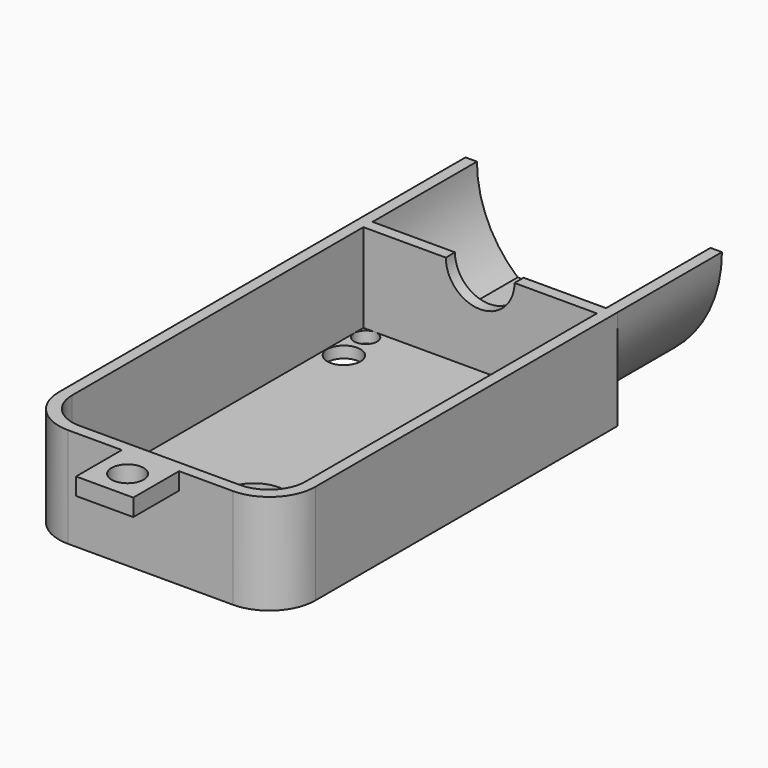
from build123d import *

# Parameters (mm, degrees)
PAD029_DEPTH    = 11.4
SKETCH042_W     = 22.4
SKETCH042_H     = 8.7429971978
PAD030_DEPTH    = 37
SKETCH043_W     = 5
SKETCH043_H     = 5
SKETCH043_R     = 1.4
PAD031_DEPTH    = 1.5
SKETCH044_R     = 2.7
SKETCH044_R_2   = 1.45
SKETCH044_R_3   = 1
POCKET007_DEPTH = 8.75
POCKET010_DEPTH = 11.4
SKETCH055_W     = 20.4
SKETCH055_H     = 35
POCKET011_DEPTH = 7.743
FILLET012_R     = 3.2
FILLET013_R     = 4
SKETCH056_R     = 3
POCKET012_DEPTH = 1
SKETCH057_W     = 6
SKETCH057_H     = 2
POCKET013_DEPTH = 1
PAD040_DEPTH    = 2.65


with BuildPart() as part:
    # Sketch041 → Pad029 (new body)
    with BuildSketch(Plane.XZ):
        with BuildLine():
            ThreePointArc((7, -8.7429971978), (10.0955435713, -4.8497422612), (11.2, 0))
            Line((-11.2, 0), (11.2, 0))
            ThreePointArc((-11.2, 0), (-10.0955435713, -4.8497422612), (-7, -8.7429971978))
            Line((7, -8.7429971978), (-7, -8.7429971978))
        make_face()
    extrude(amount=PAD029_DEPTH)

    # Sketch042 (on Face6 of Pad029) → Pad030 (join)
    with BuildSketch(Plane.XZ.offset(11.4)):
        with Locations((0, -4.3714985989)):
            Rectangle(SKETCH042_W, SKETCH042_H)
    extrude(amount=PAD030_DEPTH)

    # Sketch043 (on Face10 of Pad030) → Pad031 (join)
    with BuildSketch(Plane(origin=(0, 0, 0), x_dir=(-1, 0, 0), z_dir=(0, 0, 1))):
        with Locations((0, 50.9)):
            Rectangle(SKETCH043_W, SKETCH043_H)
        with Locations((0, 50.9)):
            Circle(SKETCH043_R, mode=Mode.SUBTRACT)
    extrude(amount=-PAD031_DEPTH)

    # Sketch044 (on Face15 of Pad031) → Pocket007 (cut)
    with BuildSketch(Plane(origin=(0, 0, 0), x_dir=(-1, 0, 0), z_dir=(0, 0, 1))):
        with Locations((0, 37.1)):
            Circle(SKETCH044_R)
        with Locations((8.7, 16.4)):
            Circle(SKETCH044_R_2)
        with Locations((-8.7, 16.4)):
            Circle(SKETCH044_R_2)
        with Locations((-9.2, 13.4)):
            Circle(SKETCH044_R_3)
        with Locations((9.2, 13.4)):
            Circle(SKETCH044_R_3)
    extrude(amount=-POCKET007_DEPTH, mode=Mode.SUBTRACT)

    # Sketch054 (on Face4 of Pocket007) → Pocket010 (cut)
    with BuildSketch(Plane(origin=(0, 0, 0), x_dir=(1, 0, 0), z_dir=(0, 1, 0))):
        with BuildLine():
            ThreePointArc((-6.6397284881, 7.7429971978), (-9.2672873749, 4.2611482855), (-10.2, 0))
            Line((-10.2, 0), (10.2, 0))
            ThreePointArc((10.2, 0), (9.2672873749, 4.2611482855), (6.6397284881, 7.7429971978))
            Line((-6.6397284881, 7.7429971978), (6.6397284881, 7.7429971978))
        make_face()
    extrude(amount=-POCKET010_DEPTH, mode=Mode.SUBTRACT)

    # Sketch055 (on Face3 of Pocket010) → Pocket011 (cut)
    with BuildSketch(Plane(origin=(0, 0, 0), x_dir=(-1, 0, 0), z_dir=(0, 0, 1))):
        with Locations((0, 29.9)):
            Rectangle(SKETCH055_W, SKETCH055_H)
    extrude(amount=-POCKET011_DEPTH, mode=Mode.SUBTRACT)

    # Fillet012
    fillet012_edges = [part.edges().sort_by_distance(p)[0] for p in [
        (10.2, -47.4, -3.8715),
        (-10.2, -47.4, -3.8715),
    ]]
    fillet(fillet012_edges, radius=FILLET012_R)

    # Fillet013
    fillet013_edges = [part.edges().sort_by_distance(p)[0] for p in [
        (11.2, -48.4, -4.371499),
        (-11.2, -48.4, -4.371499),
    ]]
    fillet(fillet013_edges, radius=FILLET013_R)

    # Sketch056 (on Face10 of Fillet013) → Pocket012 (cut)
    with BuildSketch(Plane(origin=(0, -11.4, 0), x_dir=(1, 0, 0), z_dir=(0, 1, 0))):
        Circle(SKETCH056_R)
    extrude(amount=-POCKET012_DEPTH, mode=Mode.SUBTRACT)

    # Sketch057 (on Face24 of Pocket012) → Pocket013 (cut)
    with BuildSketch(Plane(origin=(0, 0, -8.7429971978), x_dir=(1, 0, 0), z_dir=(0, 0, -1))):
        with Locations((0, 6.5)):
            Rectangle(SKETCH057_W, SKETCH057_H)
    extrude(amount=-POCKET013_DEPTH, mode=Mode.SUBTRACT)

    # Sketch058 → Pad040 (join, symmetric)
    with BuildSketch(Plane.YZ):
        Polygon((-5.5, -8.7429971978), (-5.8, -10.2429971978), (-6.8, -10.2429971978), (-6.8, -11.2429971978), (-5, -11.2429971978), (-4.5, -8.7429971978), align=None)
    extrude(amount=PAD040_DEPTH, both=True)


with BuildPart() as part_1:
    # Body020 placement: moved
    add(part.part.moved(Location((0, 37.1, 0))))


solid = part_1.part
